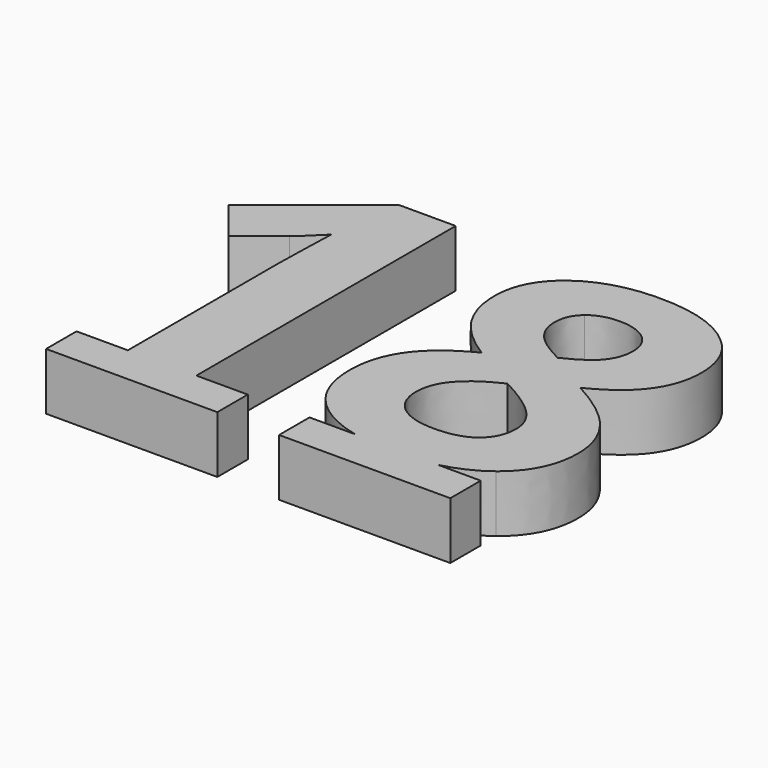
from build123d import *

# Parameters (mm, degrees)
F1_DEPTH = 15


with BuildPart() as f1:
    # F0 (on Top) → F1 (new body)
    with BuildSketch(Plane.XY):
        Polygon((-22.0199770812, -18.2164191203), (-35.5078747675, -18.2164191203), (-35.5078747675, -28.2164191203), (9.4921252325, -28.2164191203), (9.4921252325, -18.2164191203), (-4.010385738, -18.2164191203), align=None)
        with BuildLine():
            Line((-22.0199770812, 31.0769137073), (-22.0199770812, -18.2164191203))
            Line((-22.0199770812, -18.2164191203), (-4.010385738, -18.2164191203))
            Line((-4.010385738, -18.2164191203), (-4.010385738, 66.9655921087))
            Line((-4.010385738, 66.9655921087), (-18.8133003617, 66.9655921087))
            Line((-18.8133003617, 66.9655921087), (-46.2564871704, 45.1154460898))
            Line((-46.2564871704, 45.1154460898), (-37.5686304769, 34.2835904268))
            Line((-37.5686304769, 34.2835904268), (-27.7808090947, 42.1511344712))
            add(Edge.make_bspline(
                [(-21.5538903487, 48.0238273005), (-26.0283229806, 43.5493946686), (-27.7808090947, 42.1511344712)],
                knots=[0, 0, 0, 1, 1, 1], degree=2))
            Line((-21.5538903487, 48.0238273005), (-21.8335423882, 39.1681793833))
            Line((-21.8335423882, 39.1681793833), (-22.0199770812, 31.0769137073))
        make_face()
        with BuildLine():
            Line((37.6948895546, -18.2164191203), (25.7190672784, -18.2164191203))
            Line((25.7190672784, -18.2164191203), (25.7190672784, -28.2164191203))
            Line((25.7190672784, -28.2164191203), (70.7190672784, -28.2164191203))
            Line((70.7190672784, -28.2164191203), (70.7190672784, -18.2164191203))
            Line((70.7190672784, -18.2164191203), (59.4800917066, -18.2164191203))
            add(Edge.make_bspline(
                [(59.4800917066, -18.2164191203), (54.6861107626, -19.3909576862), (48.9370670724, -19.3909576862)],
                knots=[0.5711158597, 0.5711158597, 0.5711158597, 1, 1, 1], degree=2))
            add(Edge.make_bspline(
                [(48.9370670724, -19.3909576862), (42.7231861219, -19.3909576862), (37.6948895546, -18.2164191203)],
                knots=[0, 0, 0, 0.4444009035, 0.4444009035, 0.4444009035], degree=2))
        make_face()
        with BuildLine():
            add(Edge.make_bspline(
                [(37.6948895546, -18.2164191203), (31.4084103688, -16.7479869886), (26.9750602377, -13.4436909797)],
                knots=[0.4444009035, 0.4444009035, 0.4444009035, 1, 1, 1], degree=2))
            Line((37.6948895546, -18.2164191203), (59.4800917066, -18.2164191203))
            add(Edge.make_bspline(
                [(70.554169725, -13.0055694511), (65.8639102964, -16.6523659422), (59.4800917066, -18.2164191203)],
                knots=[0, 0, 0, 0.5711158597, 0.5711158597, 0.5711158597], degree=2))
            add(Edge.make_bspline(
                [(78.7666179514, 3.8574485302), (78.7666179514, -6.6201812161), (70.554169725, -13.0055694511)],
                knots=[0, 0, 0, 1, 1, 1], degree=2))
            add(Edge.make_bspline(
                [(74.599802563, 16.0782426559), (78.7666179514, 10.5131670701), (78.7666179514, 3.8574485302)],
                knots=[0, 0, 0, 1, 1, 1], degree=2))
            add(Edge.make_bspline(
                [(60.8875308933, 26.7702722992), (70.4329871746, 21.6433182418), (74.599802563, 16.0782426559)],
                knots=[0, 0, 0, 1, 1, 1], degree=2))
            add(Edge.make_bspline(
                [(72.5396992054, 35.8776070519), (68.9228661613, 30.7786181985), (60.8875308933, 26.7702722992)],
                knots=[0, 0, 0, 1, 1, 1], degree=2))
            add(Edge.make_bspline(
                [(76.1565322495, 47.5018101601), (76.1565322495, 40.9765959053), (72.5396992054, 35.8776070519)],
                knots=[0, 0, 0, 1, 1, 1], degree=2))
            add(Edge.make_bspline(
                [(68.6711793258, 62.5004812115), (76.1565322495, 56.9354056256), (76.1565322495, 47.5018101601)],
                knots=[0, 0, 0, 1, 1, 1], degree=2))
            add(Edge.make_bspline(
                [(48.9370670724, 68.0655567974), (61.1858264021, 68.0655567974), (68.6711793258, 62.5004812115)],
                knots=[0, 0, 0, 1, 1, 1], degree=2))
            add(Edge.make_bspline(
                [(29.1936330843, 62.4165855996), (36.7628816199, 68.0655567974), (48.9370670724, 68.0655567974)],
                knots=[0, 0, 0, 1, 1, 1], degree=2))
            add(Edge.make_bspline(
                [(21.6243845487, 47.6136709759), (21.6243845487, 56.7676144019), (29.1936330843, 62.4165855996)],
                knots=[0, 0, 0, 1, 1, 1], degree=2))
            add(Edge.make_bspline(
                [(24.8217395336, 36.1386156221), (21.6243845487, 41.3867522299), (21.6243845487, 47.6136709759)],
                knots=[0, 0, 0, 1, 1, 1], degree=2))
            add(Edge.make_bspline(
                [(35.3086910145, 26.3041855667), (28.0190945184, 30.8904790143), (24.8217395336, 36.1386156221)],
                knots=[0, 0, 0, 1, 1, 1], degree=2))
            add(Edge.make_bspline(
                [(22.8734969918, 16.3299294915), (26.7513386061, 21.9789006892), (35.3086910145, 26.3041855667)],
                knots=[0, 0, 0, 1, 1, 1], degree=2))
            add(Edge.make_bspline(
                [(18.9956553775, 3.3913617977), (18.9956553775, 10.6809582938), (22.8734969918, 16.3299294915)],
                knots=[0, 0, 0, 1, 1, 1], degree=2))
            add(Edge.make_bspline(
                [(26.9750602377, -13.4436909797), (18.9956553775, -7.4964242732), (18.9956553775, 3.3913617977)],
                knots=[0, 0, 0, 1, 1, 1], degree=2))
        make_face()
        with BuildLine():
            add(Edge.make_bspline(
                [(35.6629169312, 4.4540395478), (35.6629169312, -0.5610536938), (39.1585674248, -3.3575740887)],
                knots=[0, 0, 0, 1, 1, 1], degree=2))
            add(Edge.make_bspline(
                [(48.0608240153, 18.9027282548), (35.6629169312, 13.1791831799), (35.6629169312, 4.4540395478)],
                knots=[0, 0, 0, 1, 1, 1], degree=2))
            add(Edge.make_bspline(
                [(58.7528536585, 11.6410969627), (55.4622813272, 15.0435301098), (48.0608240153, 18.9027282548)],
                knots=[0, 0, 0, 1, 1, 1], degree=2))
            add(Edge.make_bspline(
                [(62.0434259899, 4.3235352627), (62.0434259899, 8.2386638155), (58.7528536585, 11.6410969627)],
                knots=[0, 0, 0, 1, 1, 1], degree=2))
            add(Edge.make_bspline(
                [(58.7248884546, -3.2736784769), (62.0434259899, -0.3932624701), (62.0434259899, 4.3235352627)],
                knots=[0, 0, 0, 1, 1, 1], degree=2))
            add(Edge.make_bspline(
                [(48.7133454408, -6.1540944836), (55.4063509193, -6.1540944836), (58.7248884546, -3.2736784769)],
                knots=[0, 0, 0, 1, 1, 1], degree=2))
            add(Edge.make_bspline(
                [(39.1585674248, -3.3575740887), (42.6542179185, -6.1540944836), (48.7133454408, -6.1540944836)],
                knots=[0, 0, 0, 1, 1, 1], degree=2))
        make_face(mode=Mode.SUBTRACT)
        with BuildLine():
            add(Edge.make_bspline(
                [(48.8252062566, 54.903267472), (44.2202693396, 54.903267472), (41.3957837408, 52.5448686056)],
                knots=[0, 0, 0, 1, 1, 1], degree=2))
            add(Edge.make_bspline(
                [(56.2825939763, 52.5728338095), (53.3742127656, 54.903267472), (48.8252062566, 54.903267472)],
                knots=[0, 0, 0, 1, 1, 1], degree=2))
            add(Edge.make_bspline(
                [(59.1909751871, 46.2154107784), (59.1909751871, 50.2424001471), (56.2825939763, 52.5728338095)],
                knots=[0, 0, 0, 1, 1, 1], degree=2))
            add(Edge.make_bspline(
                [(56.9257936672, 39.7461269315), (59.1909751871, 42.5426473265), (59.1909751871, 46.2154107784)],
                knots=[0, 0, 0, 1, 1, 1], degree=2))
            add(Edge.make_bspline(
                [(48.9370670724, 34.2835904268), (54.6606121473, 36.9496065366), (56.9257936672, 39.7461269315)],
                knots=[0, 0, 0, 1, 1, 1], degree=2))
            add(Edge.make_bspline(
                [(40.8178361925, 39.9605268285), (43.0643742431, 37.1919716375), (48.9370670724, 34.2835904268)],
                knots=[0, 0, 0, 1, 1, 1], degree=2))
            add(Edge.make_bspline(
                [(38.5712981419, 46.2154107784), (38.5712981419, 42.7290820195), (40.8178361925, 39.9605268285)],
                knots=[0, 0, 0, 1, 1, 1], degree=2))
            add(Edge.make_bspline(
                [(41.3957837408, 52.5448686056), (38.5712981419, 50.1864697392), (38.5712981419, 46.2154107784)],
                knots=[0, 0, 0, 1, 1, 1], degree=2))
        make_face(mode=Mode.SUBTRACT)
        with BuildLine():
            Line((59.4800917066, -18.2164191203), (37.6948895546, -18.2164191203))
            add(Edge.make_bspline(
                [(48.9370670724, -19.3909576862), (42.7231861219, -19.3909576862), (37.6948895546, -18.2164191203)],
                knots=[0, 0, 0, 0.4444009035, 0.4444009035, 0.4444009035], degree=2))
            add(Edge.make_bspline(
                [(59.4800917066, -18.2164191203), (54.6861107626, -19.3909576862), (48.9370670724, -19.3909576862)],
                knots=[0.5711158597, 0.5711158597, 0.5711158597, 1, 1, 1], degree=2))
        make_face()
    extrude(amount=F1_DEPTH)


solid = f1.part
